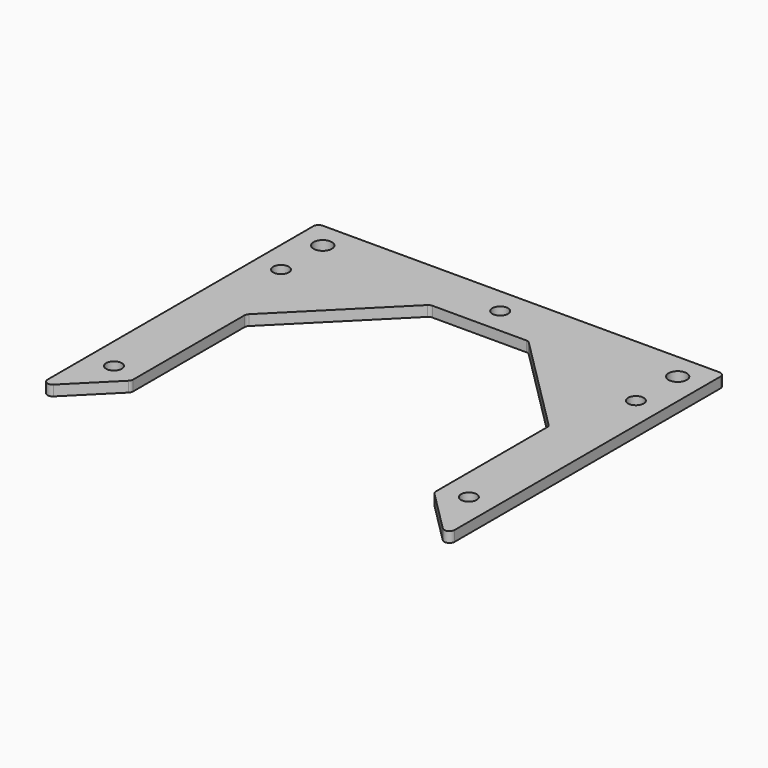
from build123d import *

# Parameters (mm, degrees)
SKETCH_R   = 3.5
SKETCH_R_2 = 3
PAD_DEPTH  = 4


with BuildPart() as part:
    # Sketch → Pad (new body)
    with BuildSketch(Plane.XY):
        with BuildLine():
            Line((-78, 8), (-78, -119.313708))
            ThreePointArc((-78, -119.313708), (-76.765367, -121.161468), (-74.585786, -120.727922))
            Line((-74.585786, -120.727922), (-58.585786, -104.727922))
            ThreePointArc((-58.585786, -104.727922), (-58.152241, -104.079075), (-58, -103.313708))
            Line((-58, -50), (-58, -103.313708))
            ThreePointArc((-57.414214, -48.585786), (-57.847759, -49.234633), (-58, -50))
            Line((-57.414214, -48.585786), (-19.414214, -10.585786))
            ThreePointArc((-18, -10), (-18.765367, -10.152241), (-19.414214, -10.585786))
            Line((-18, -10), (18, -10))
            ThreePointArc((19.414214, -10.585786), (18.765367, -10.152241), (18, -10))
            Line((19.414214, -10.585786), (57.414214, -48.585786))
            ThreePointArc((58, -50), (57.847759, -49.234633), (57.414214, -48.585786))
            Line((58, -50), (58, -103.313708))
            ThreePointArc((58, -103.313708), (58.152241, -104.079075), (58.585786, -104.727922))
            Line((58.585786, -104.727922), (74.585786, -120.727922))
            ThreePointArc((74.585786, -120.727922), (76.765367, -121.161468), (78, -119.313708))
            Line((78, -119.313708), (78, 8))
            ThreePointArc((78, 8), (77.414214, 9.414214), (76, 10))
            Line((76, 10), (-76, 10))
            ThreePointArc((-76, 10), (-77.414214, 9.414214), (-78, 8))
        make_face()
        with Locations((-68, 0)):
            Circle(SKETCH_R, mode=Mode.SUBTRACT)
        with Locations((68, 0)):
            Circle(SKETCH_R, mode=Mode.SUBTRACT)
        with Locations((-68, -20)):
            Circle(SKETCH_R_2, mode=Mode.SUBTRACT)
        with Locations((-68, -100)):
            Circle(SKETCH_R_2, mode=Mode.SUBTRACT)
        with Locations((68, -20)):
            Circle(SKETCH_R_2, mode=Mode.SUBTRACT)
        with Locations((68, -100)):
            Circle(SKETCH_R_2, mode=Mode.SUBTRACT)
        Circle(SKETCH_R_2, mode=Mode.SUBTRACT)
    extrude(amount=PAD_DEPTH)


solid = part.part
